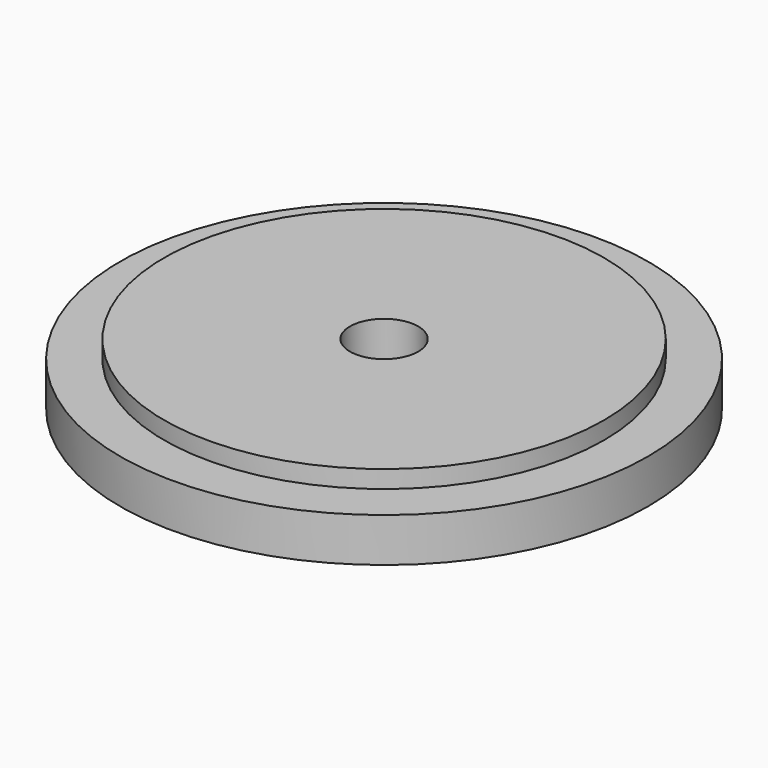
from build123d import *

# Parameters (mm, degrees)
F0_R     = 15
F1_DEPTH = 2.5
F2_R     = 12.5
F3_DEPTH = 1
F4_R     = 1.94
F5_DEPTH = 3.5


with BuildPart() as f1:
    # F0 (on Top) → F1 (new body)
    with BuildSketch(Plane.XY):
        Circle(F0_R)
    extrude(amount=F1_DEPTH)

    # F2 (on face) → F3 (join)
    with BuildSketch(Plane.XY.offset(2.5)):
        Circle(F2_R)
    extrude(amount=F3_DEPTH)

    # F4 (on face) → F5 (cut, through all)
    with BuildSketch(Plane.XY.offset(3.5)):
        Circle(F4_R)
    extrude(amount=-F5_DEPTH, mode=Mode.SUBTRACT)


solid = f1.part
